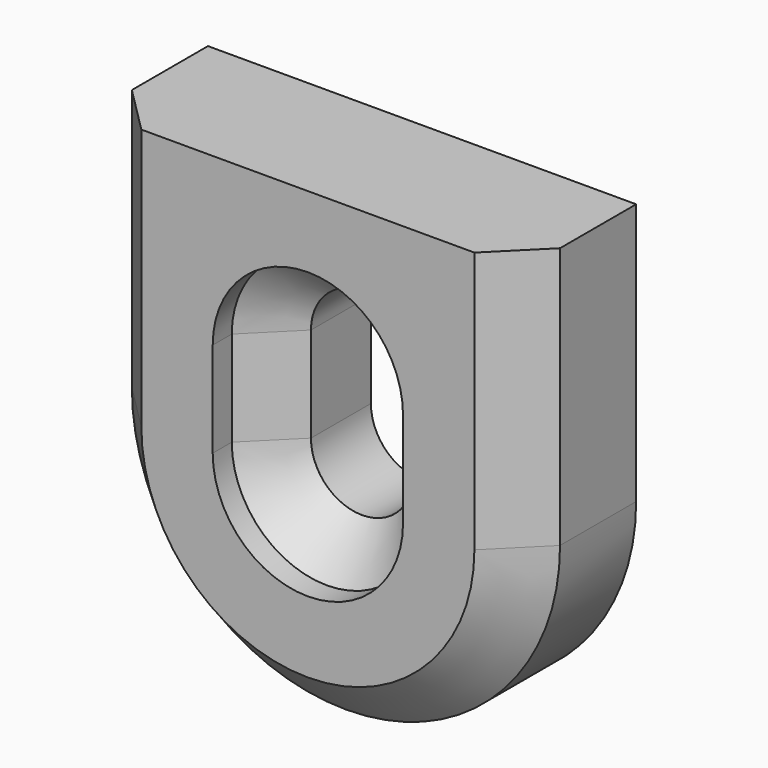
from build123d import *

# Parameters (mm, degrees)
PAD_DEPTH       = 6
POCKET_DEPTH    = 2.85
CHAMFER_SIZE    = 1.849
CHAMFER001_SIZE = 2


with BuildPart() as part:
    # Sketch → Pad (new body)
    with BuildSketch(Plane.XZ):
        with BuildLine():
            ThreePointArc((-9, -4.00004), (2e-05, -13.00004), (9, -4))
            Line((9, 7), (9, -4))
            Line((-9, 7), (9, 7))
            Line((-9, -4.00004), (-9, 7))
        make_face()
        with BuildLine():
            ThreePointArc((2.15, 0), (0, 2.15), (-2.15, 0))
            Line((-2.15, 0), (-2.15, -4.00004))
            ThreePointArc((-2.15, -4.00004), (0, -6.15004), (2.15, -4.00004))
            Line((2.15, 0), (2.15, -4.00004))
        make_face(mode=Mode.SUBTRACT)
    extrude(amount=PAD_DEPTH)

    # Sketch001 → Pocket (cut)
    with BuildSketch(Plane.XZ.offset(6)):
        with BuildLine():
            ThreePointArc((4, 0), (0, 4), (-4, 0))
            Line((-4, 0), (-4, -4.00004))
            ThreePointArc((-4, -4.00004), (0, -8.00004), (4, -4.00004))
            Line((4, 0), (4, -4.00004))
        make_face()
    extrude(amount=-POCKET_DEPTH, mode=Mode.SUBTRACT)

    # Chamfer
    chamfer_edges = [part.edges().sort_by_distance(p)[0] for p in [
        (-4, -3.15, -2.00002),
    ]]
    chamfer(chamfer_edges, length=CHAMFER_SIZE)

    # Chamfer001
    chamfer001_edges = [part.edges().sort_by_distance(p)[0] for p in [
        (-9, -6, 1.49998),
    ]]
    chamfer(chamfer001_edges, length=CHAMFER001_SIZE)


solid = part.part
